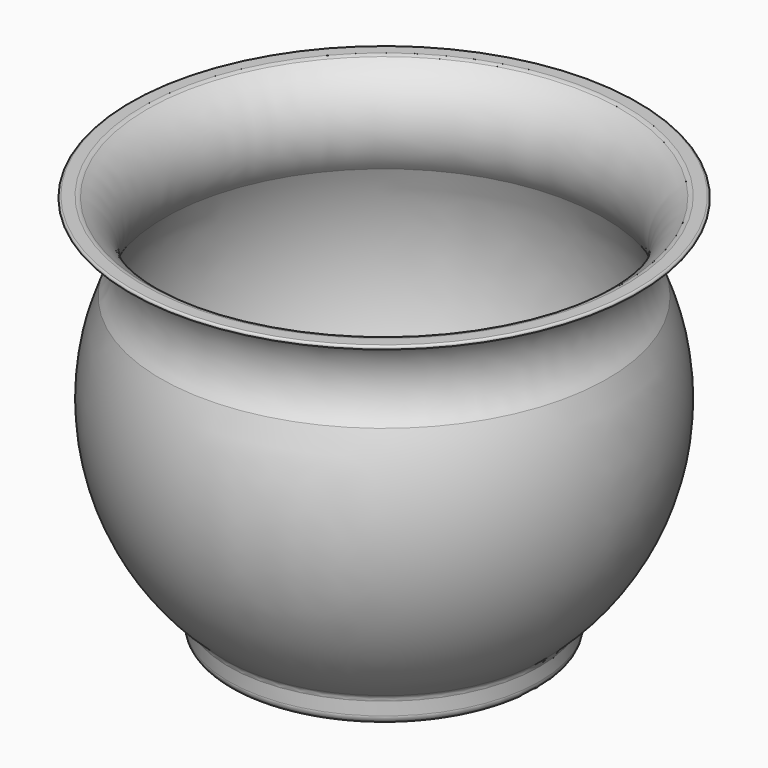
from build123d import *


with BuildPart() as f1:
    # F0 (on Right) → F1 (revolve)
    with BuildSketch(Plane.YZ):
        with BuildLine():
            Line((0, 1), (0, 0))
            Line((0, 0), (25.149, 0))
            ThreePointArc((25.149, 0), (25.480191, -0.056436), (25.774, -0.219375))
            Line((25.774, -0.219375), (27.8005, -1.841874))
            ThreePointArc((27.8005, -1.841874), (28.681927, -2.330691), (29.6755, -2.5))
            Line((29.6755, -2.5), (34.622499, -2.5))
            ThreePointArc((34.622499, -2.5), (36.036713, -1.914214), (36.622499, -0.5))
            Line((36.622499, -0.5), (36.622499, 2.563708))
            ThreePointArc((36.622499, 2.563708), (36.807682, 3.404206), (37.328937, 4.089059))
            ThreePointArc((37.328937, 4.089059), (55.320572, 33.29954), (52.622499, 67.5))
            ThreePointArc((52.622499, 67.5), (50.011539, 78.493743), (56.835528, 87.5))
            ThreePointArc((56.835528, 87.5), (58.053603, 87.699075), (59.287839, 87.699443))
            ThreePointArc((59.287839, 87.699443), (59.327935, 87.535487), (59.486598, 87.477908))
            ThreePointArc((59.486598, 87.477908), (59.940772, 87.932082), (59.486598, 88.386256))
            Line((59.486598, 88.386256), (56.883244, 88.386256))
            ThreePointArc((56.883244, 88.386256), (56.3688, 88.31896), (55.888975, 88.121603))
            ThreePointArc((55.888975, 88.121603), (48.992483, 78.500404), (51.75184, 66.988887))
            ThreePointArc((51.75184, 66.988887), (54.332272, 33.467125), (36.682156, 4.851735))
            ThreePointArc((36.682156, 4.851735), (35.900273, 3.824456), (35.622499, 2.563708))
            Line((35.622499, 2.563708), (35.622499, -0.5))
            ThreePointArc((35.622499, -0.5), (35.329606, -1.207107), (34.622499, -1.5))
            Line((34.622499, -1.5), (29.6755, -1.5))
            ThreePointArc((29.6755, -1.5), (29.013118, -1.387127), (28.4255, -1.061249))
            Line((28.4255, -1.061249), (26.399, 0.561249))
            ThreePointArc((26.399, 0.561249), (25.811382, 0.887127), (25.149, 1))
            Line((25.149, 1), (0, 1))
        make_face()
    revolve(axis=Axis((0, 0, -1.035055), (0, 0, -1)))


solid = f1.part
